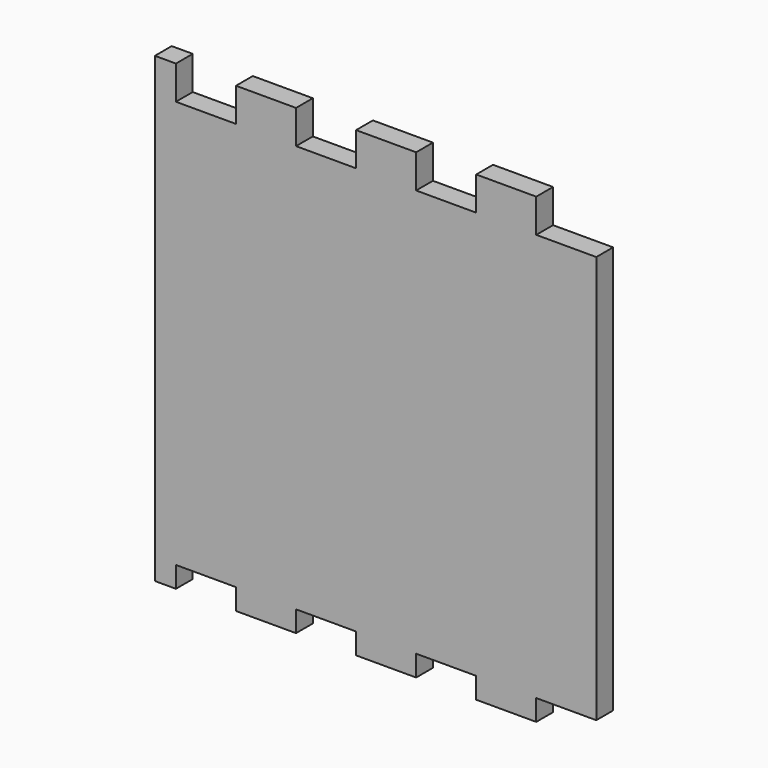
from build123d import *

# Parameters (mm, degrees)
F0_W     = 133.35
F0_H     = 139.7
F1_DEPTH = 6.35
F2_W     = 18.1428571429
F2_H     = 10.16
F2_H_2   = 6.35
F3_DEPTH = 25.4


with BuildPart() as f1:
    # F0 (on Front) → F1 (new body)
    with BuildSketch(Plane.XZ):
        Rectangle(F0_W, F0_H)
    extrude(amount=F1_DEPTH)

    # F2 (on face) → F3 (cut)
    with BuildSketch(Plane.XZ.offset(6.35)):
        with Locations((57.6035714286, 64.77)):
            Rectangle(F2_W, F2_H)
        with Locations((-51.2535714286, 64.77)):
            Rectangle(F2_W, F2_H)
        with Locations((-14.9678571429, 64.77)):
            Rectangle(F2_W, F2_H)
        with Locations((21.3178571429, 64.77)):
            Rectangle(F2_W, F2_H)
        with Locations((-51.2535714286, -66.675)):
            Rectangle(F2_W, F2_H_2)
        with Locations((-14.9678571429, -66.675)):
            Rectangle(F2_W, F2_H_2)
        with Locations((21.3178571429, -66.675)):
            Rectangle(F2_W, F2_H_2)
        with Locations((57.6035714286, -66.675)):
            Rectangle(F2_W, F2_H_2)
    extrude(amount=-F3_DEPTH, mode=Mode.SUBTRACT)


solid = f1.part
